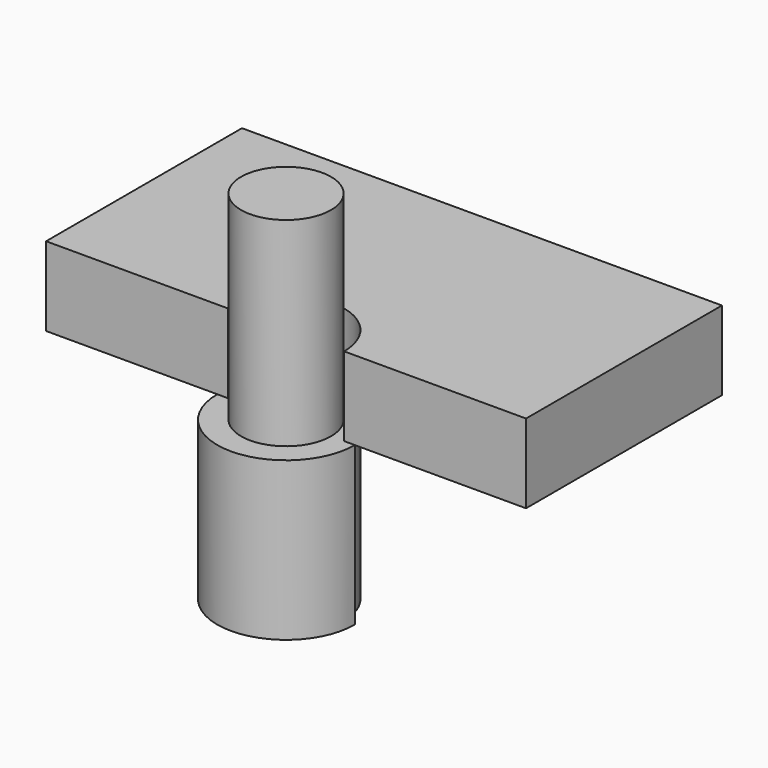
from build123d import *

# Parameters (mm, degrees)
F0_W     = 151.8057435751
F0_H     = 77.4519108236
F1_DEPTH = 25
F3_DEPTH = 25
F4_R     = 15.359977329
F5_DEPTH = 50
F6_R     = 14.2326136312
F7_DEPTH = 63


with BuildPart() as f1:
    # F0 (on Top) → F1 (new body)
    with BuildSketch(Plane.XY):
        with Locations((6.7770406604, -0.9681414813)):
            Rectangle(F0_W, F0_H)
    extrude(amount=F1_DEPTH)

    # F2 (on face) → F3 (cut)
    with BuildSketch(Plane.XY.offset(25)):
        with BuildLine():
            Line((-11.5967069719, -39.6940968931), (25.1507882926, -39.6940968931))
            ThreePointArc((25.1507882926, -39.6940968931), (6.7770406604, -21.3203492608), (-11.5967069719, -39.6940968931))
        make_face()
    extrude(amount=-F3_DEPTH, mode=Mode.SUBTRACT)


with BuildPart() as f5:
    # F4 (on face) → F5 (new body)
    with BuildSketch(Plane(origin=(0, 0, 0), x_dir=(1, 0, 0), z_dir=(0, 0, -1))):
        with BuildLine():
            Line((25.1507882926, 39.6940968931), (28.5237095795, 39.6940968931))
            ThreePointArc((28.5237095795, 39.6940968931), (6.7770406604, 61.4407658122), (-14.9696282588, 39.6940968931))
            Line((-14.9696282588, 39.6940968931), (-11.5967069719, 39.6940968931))
            ThreePointArc((-11.5967069719, 39.6940968931), (6.7770406604, 21.3203492608), (25.1507882926, 39.6940968931))
        make_face()
        with Locations((6.7770406604, 39.6940968931)):
            Circle(F4_R, mode=Mode.SUBTRACT)
        with Locations((6.7770406604, 39.6940968931)):
            Circle(F4_R)
    extrude(amount=F5_DEPTH)

    # F6 (on face) → F7 (join)
    with BuildSketch(Plane.XY):
        with Locations((6.7770406604, -39.6940968931)):
            Circle(F6_R)
    extrude(amount=F7_DEPTH)


solid = Compound([f1.part, f5.part])
